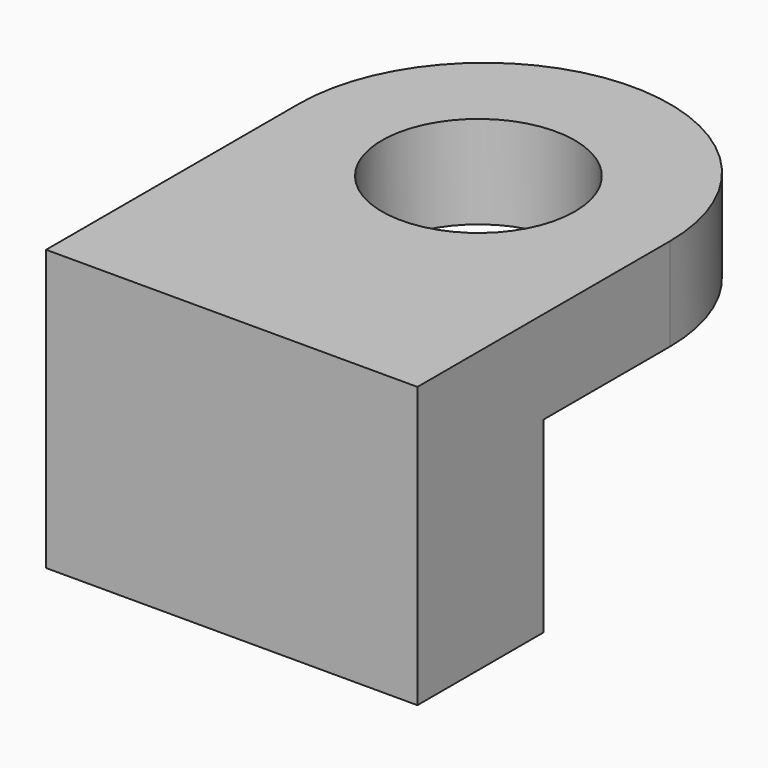
from build123d import *

# Parameters (mm, degrees)
F0_W     = 50.8
F0_H     = 43.18
F1_DEPTH = 12.7
F2_R     = 13.194119
F3_DEPTH = 12.701
F4_W     = 50.8
F4_H     = 25.634238
F5_DEPTH = 21.59


with BuildPart() as f1:
    # F0 (on Top) → F1 (new body)
    with BuildSketch(Plane.XY):
        with BuildLine():
            ThreePointArc((25.4, 21.59), (0, 46.99), (-25.4, 21.59))
            Line((-25.4, 21.59), (25.4, 21.59))
        make_face()
        Rectangle(F0_W, F0_H)
    extrude(amount=F1_DEPTH)

    # F2 (on Top) → F3 (cut, through all)
    with BuildSketch(Plane.XY):
        with Locations((0, 20.587881)):
            Circle(F2_R)
    extrude(amount=F3_DEPTH, mode=Mode.SUBTRACT)

    # F4 (on Front) → F5 (join)
    with BuildSketch(Plane.XZ):
        with Locations((0, -12.817119)):
            Rectangle(F4_W, F4_H)
    extrude(amount=F5_DEPTH)


solid = f1.part
